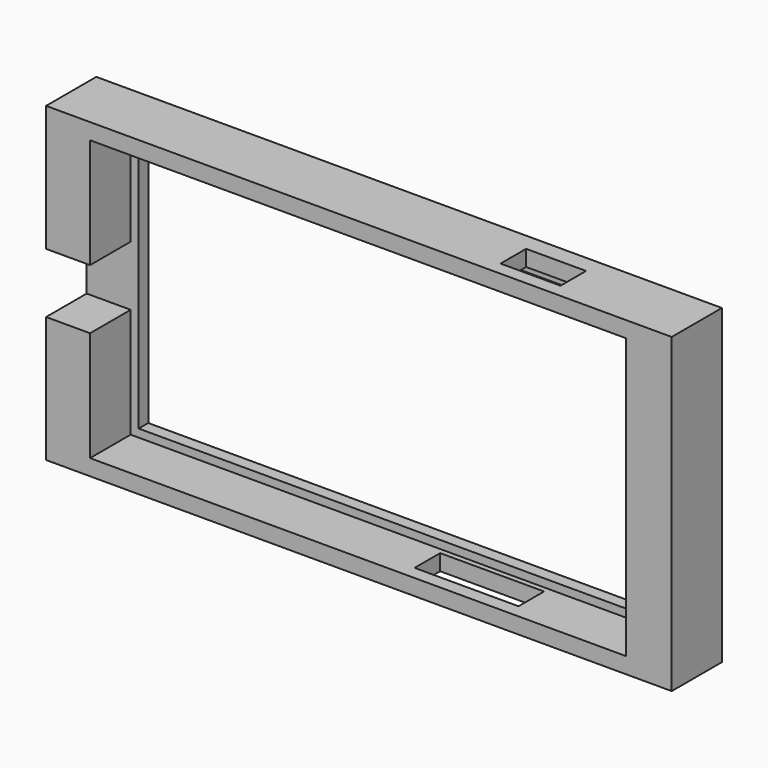
from build123d import *

# Parameters (mm, degrees)
F0_W          = 130.5
F0_H          = 2
F1_DEPTH      = 3
F0_W_2        = 142.5
F0_H_2        = 78
F0_W_3        = 7
F2_DEPTH      = 3
F2_DEPTH_BACK = 12.7
F3_W          = 5.5
F3_H          = 7.5
F4_DEPTH      = 12.7
F6_DEPTH      = 4.001
F8_DEPTH      = 4.001
F9_DEPTH      = 0.4
F10_DEPTH     = 2
F11_DEPTH     = 2


with BuildPart() as f1:
    # F0 (on Front) → F1 (new body)
    with BuildSketch(Plane.XZ):
        Polygon((67.25, 35), (65.25, 35), (65.25, 33), (65.25, -33), (65.25, -35), (67.25, -35), align=None)
        with Locations((0, 34)):
            Rectangle(F0_W, F0_H)
        Polygon((-65.25, 35), (-67.25, 35), (-67.25, -35), (-65.25, -35), (-65.25, -33), (-65.25, 33), align=None)
        with Locations((0, -34)):
            Rectangle(F0_W, F0_H)
    extrude(amount=-F1_DEPTH)

    # F0 (on Front) → F2 (join, two sides)
    with BuildSketch(Plane.XZ) as f2_sk:
        Rectangle(F0_W_2, F0_H_2)
        Polygon((-67.25, -35), (-67.25, 35), (-65.25, 35), (65.25, 35), (67.25, 35), (67.25, -35), (65.25, -35), (-65.25, -35), align=None, mode=Mode.SUBTRACT)
        with Locations((-74.75, 0)):
            Rectangle(F0_W_3, F0_H_2)
        with Locations((74.75, 0)):
            Rectangle(F0_W_3, F0_H_2)
    extrude(amount=-F2_DEPTH)
    extrude(f2_sk.sketch, amount=F2_DEPTH_BACK)

    # F3 (on face) → F4 (cut)
    with BuildSketch(Plane.XZ.offset(12.7)):
        with Locations((-75.5, 3.75)):
            Rectangle(F3_W, F3_H)
        with Locations((-70, 3.75)):
            Rectangle(F3_W, F3_H)
        with Locations((-70, -3.75)):
            Rectangle(F3_W, F3_H)
        with Locations((-75.5, -3.75)):
            Rectangle(F3_W, F3_H)
    extrude(amount=-F4_DEPTH, mode=Mode.SUBTRACT)

    # F5 (on face) → F6 (cut, through all)
    with BuildSketch(Plane(origin=(0, 0, 35), x_dir=(1, 0, 0), z_dir=(0, 0, -1))):
        Polygon((47.75, 3.35), (47.75, 6.35), (47.75, 9.35), (32.75, 9.35), (32.75, 3.35), align=None)
    extrude(amount=-F6_DEPTH, mode=Mode.SUBTRACT)

    # F7 (on face) → F8 (cut, through all)
    with BuildSketch(Plane.XY.offset(-35)):
        Polygon((37.25, -9.35), (37.25, -6.35), (37.25, -3.35), (11.25, -3.35), (11.25, -9.35), align=None)
    extrude(amount=-F8_DEPTH, mode=Mode.SUBTRACT)

    # F9 (add): faces of the model
    f9_faces = [f1.faces().sort_by_distance(p)[0] for p in [
        (67.25, -6.35, 0),
        (65.25, 1.5, 0),
    ]]
    extrude(f9_faces, amount=F9_DEPTH)

    # F10 (cut): a face of the model
    f10_faces = [f1.faces().sort_by_distance(p)[0] for p in [
        (24.25, -3.35, -37),
    ]]
    extrude(f10_faces, amount=-F10_DEPTH, mode=Mode.SUBTRACT)

    # F11 (cut): a face of the model
    f11_faces = [f1.faces().sort_by_distance(p)[0] for p in [
        (40.25, -3.35, 37),
    ]]
    extrude(f11_faces, amount=-F11_DEPTH, mode=Mode.SUBTRACT)


solid = f1.part
